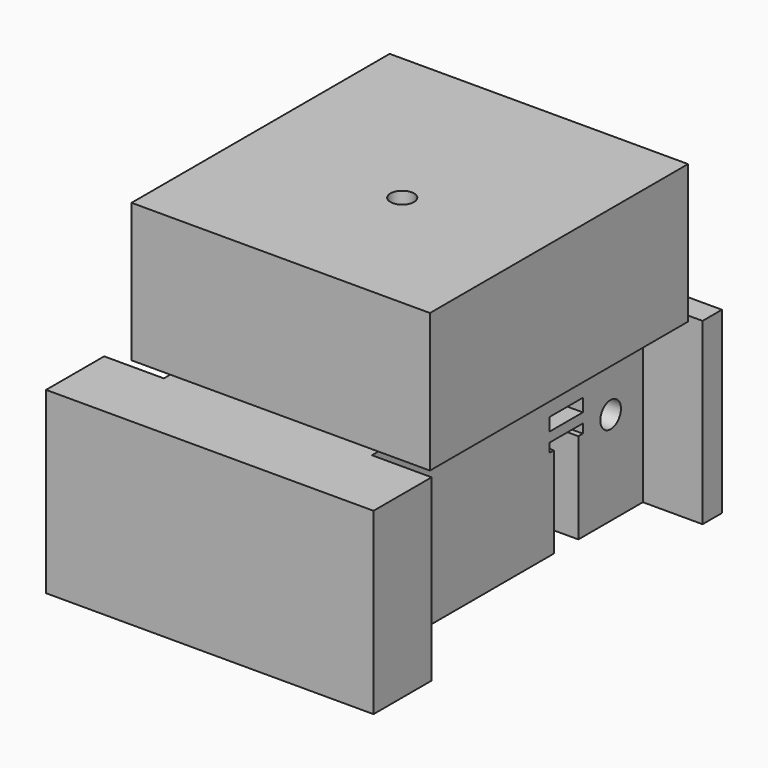
from build123d import *

# Parameters (mm, degrees)
PAD_DEPTH            = 50
PAD001_DEPTH         = 26.5
PAD001_DEPTH_BACK    = 29
SKETCH001_R          = 3.65
POCKET_DEPTH         = 0.501
POCKET_DEPTH_BACK    = -98.001
SKETCH002_R          = 4
SKETCH002_W          = 9.5
SKETCH002_H          = 30
POCKET001_DEPTH      = 56.001
POCKET001_DEPTH_BACK = -45.501
POCKET002_DEPTH      = 6.5


with BuildPart() as part:
    # Sketch → Pad (new body, symmetric)
    with BuildSketch(Plane.XZ):
        Polygon((-37.5, -28.5), (27, -28.5), (27, 26.5), (43, 26.5), (43, 69.5), (-49.5, 69.5), (-49.5, 26.5), (-37.5, 26.5), align=None)
    extrude(amount=PAD_DEPTH, both=True)

    # Sketch003 → Pad001 (join, two sides)
    with BuildSketch(Plane.XY) as pad001_sk:
        Polygon((-56, -52.5), (-56, -75), (45.5, -75), (45.5, -52.5), (27, -52.5), (27, 52.5), (45.5, 52.5), (45.5, 60), (-56, 60), (-56, 56.5), (-37.5, 56.5), (-37.5, -52.5), align=None)
    extrude(amount=PAD001_DEPTH)
    extrude(pad001_sk.sketch, amount=-PAD001_DEPTH_BACK)

    # Sketch001 → Pocket (cut, two sides)
    with BuildSketch(Plane.XY.offset(-28.5)) as pocket_sk:
        with Locations((0, -7)):
            Circle(SKETCH001_R)
    extrude(amount=-POCKET_DEPTH, mode=Mode.SUBTRACT)
    extrude(pocket_sk.sketch, amount=-POCKET_DEPTH_BACK, mode=Mode.SUBTRACT)

    # Sketch002 → Pocket001 (cut, two sides)
    with BuildSketch(Plane.YZ) as pocket001_sk:
        with Locations((-40, 0)):
            Circle(SKETCH002_R)
        with Locations((40, 0)):
            Circle(SKETCH002_R)
        with Locations((22.75, -15.8)):
            Rectangle(SKETCH002_W, SKETCH002_H)
    extrude(amount=-POCKET001_DEPTH, mode=Mode.SUBTRACT)
    extrude(pocket001_sk.sketch, amount=-POCKET001_DEPTH_BACK, mode=Mode.SUBTRACT)

    # Sketch004 (on DatumPlane) → Pocket002 (cut, symmetric)
    with BuildSketch(Plane(origin=(0.333333, 22.75, -10.033333), x_dir=(-1, 0, 0), z_dir=(0, 1, 0))):
        Polygon((-28.5, 19), (-13.5, 19), (-13.5, 9.2), (-28.5, 9.2), (-28.5, 12), (-18.5, 12), (-18.5, 15), (-28.5, 15), align=None)
        Polygon((38.5, 19), (8.5, 19), (8.5, 9.2), (38.5, 9.2), (38.5, 12), (19.3, 12), (19.3, 15), (38.5, 15), align=None)
    extrude(amount=POCKET002_DEPTH, both=True, mode=Mode.SUBTRACT)


solid = part.part
